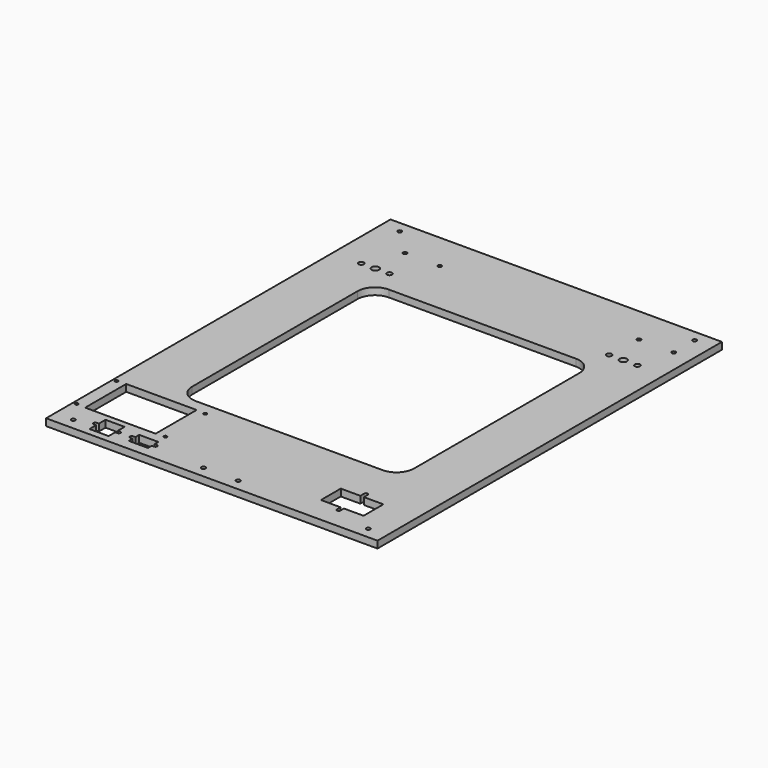
from build123d import *

# Parameters (mm, degrees)
SKETCH_W   = 381
SKETCH_H   = 495
SKETCH_R   = 3
SKETCH_R_2 = 4.2
SKETCH_R_3 = 2.2
SKETCH_R_4 = 2.25
SKETCH_R_5 = 1.8
SKETCH_R_6 = 2.4
SKETCH_W_2 = 255
SKETCH_H_2 = 277.586411
SKETCH_W_3 = 81
SKETCH_H_3 = 59
PAD_DEPTH  = 8
FILLET_R   = 20


with BuildPart() as part:
    # Sketch → Pad (new body)
    with BuildSketch(Plane.XY):
        with Locations((-190.5, 247.5)):
            Rectangle(SKETCH_W, SKETCH_H)
        with Locations((-348.25, 412)):
            Circle(SKETCH_R, mode=Mode.SUBTRACT)
        with Locations((-315.75, 412)):
            Circle(SKETCH_R, mode=Mode.SUBTRACT)
        with Locations((-332, 412)):
            Circle(SKETCH_R_2, mode=Mode.SUBTRACT)
        with Locations((-63.25, 412)):
            Circle(SKETCH_R, mode=Mode.SUBTRACT)
        with Locations((-30.75, 412)):
            Circle(SKETCH_R, mode=Mode.SUBTRACT)
        with Locations((-47, 412)):
            Circle(SKETCH_R_2, mode=Mode.SUBTRACT)
        with Locations((-330, 452)):
            Circle(SKETCH_R_3, mode=Mode.SUBTRACT)
        with Locations((-290, 452)):
            Circle(SKETCH_R_3, mode=Mode.SUBTRACT)
        with Locations((-61, 452)):
            Circle(SKETCH_R_3, mode=Mode.SUBTRACT)
        with Locations((-21, 452)):
            Circle(SKETCH_R_3, mode=Mode.SUBTRACT)
        with Locations((-21, 482)):
            Circle(SKETCH_R_4, mode=Mode.SUBTRACT)
        with Locations((-360, 482)):
            Circle(SKETCH_R_4, mode=Mode.SUBTRACT)
        with Locations((-21, 13)):
            Circle(SKETCH_R_4, mode=Mode.SUBTRACT)
        with Locations((-360, 13)):
            Circle(SKETCH_R_4, mode=Mode.SUBTRACT)
        with Locations((-377, 96)):
            Circle(SKETCH_R_5, mode=Mode.SUBTRACT)
        with Locations((-275, 96)):
            Circle(SKETCH_R_5, mode=Mode.SUBTRACT)
        with Locations((-275, 39)):
            Circle(SKETCH_R_5, mode=Mode.SUBTRACT)
        with Locations((-377, 39)):
            Circle(SKETCH_R_5, mode=Mode.SUBTRACT)
        with Locations((-210.5, 13)):
            Circle(SKETCH_R_6, mode=Mode.SUBTRACT)
        with Locations((-170.5, 13)):
            Circle(SKETCH_R_6, mode=Mode.SUBTRACT)
        with Locations((-189.5, 248.793205)):
            Rectangle(SKETCH_W_2, SKETCH_H_2, mode=Mode.SUBTRACT)
        with Locations((-326, 67.5)):
            Rectangle(SKETCH_W_3, SKETCH_H_3, mode=Mode.SUBTRACT)
        with BuildLine():
            Line((-337.5, 31), (-315.5, 31))
            Line((-315.5, 31), (-315.5, 21.5))
            Line((-315.5, 21.5), (-313, 21.5))
            ThreePointArc((-313, 17.5), (-311, 19.5), (-313, 21.5))
            Line((-315.5, 17.5), (-313, 17.5))
            Line((-315.5, 17.5), (-315.5, 8))
            Line((-315.5, 8), (-337.5, 8))
            Line((-337.5, 8), (-337.5, 17.5))
            Line((-340, 17.5), (-337.5, 17.5))
            ThreePointArc((-340, 21.5), (-342, 19.5), (-340, 17.5))
            Line((-340, 21.5), (-337.5, 21.5))
            Line((-337.5, 21.5), (-337.5, 31))
        make_face(mode=Mode.SUBTRACT)
        with BuildLine():
            Line((-295.5, 27), (-273.5, 27))
            Line((-273.5, 27), (-273.5, 21.5))
            Line((-273.5, 21.5), (-271, 21.5))
            ThreePointArc((-271, 17.5), (-269, 19.5), (-271, 21.5))
            Line((-273.5, 17.5), (-271, 17.5))
            Line((-273.5, 17.5), (-273.5, 12))
            Line((-273.5, 12), (-295.5, 12))
            Line((-295.5, 12), (-295.5, 17.5))
            Line((-298, 17.5), (-295.5, 17.5))
            ThreePointArc((-298, 21.5), (-300, 19.5), (-298, 17.5))
            Line((-298, 21.5), (-295.5, 21.5))
            Line((-295.5, 21.5), (-295.5, 27))
        make_face(mode=Mode.SUBTRACT)
        with BuildLine():
            Line((-89, 58.5), (-66.5, 58.5))
            Line((-66.5, 64), (-66.5, 58.5))
            ThreePointArc((-62.5, 64), (-64.5, 66), (-66.5, 64))
            Line((-62.5, 64), (-62.5, 58.5))
            Line((-62.5, 58.5), (-40, 58.5))
            Line((-40, 58.5), (-40, 30))
            Line((-40, 30), (-62.5, 30))
            Line((-62.5, 30), (-62.5, 25))
            ThreePointArc((-66.5, 25), (-64.5, 23), (-62.5, 25))
            Line((-66.5, 30), (-66.5, 25))
            Line((-66.5, 30), (-89, 30))
            Line((-89, 30), (-89, 58.5))
        make_face(mode=Mode.SUBTRACT)
    extrude(amount=PAD_DEPTH)

    # Fillet
    fillet_edges = [part.edges().sort_by_distance(p)[0] for p in [
        (-317, 387.586411, 4),
        (-62, 387.586411, 4),
        (-62, 110, 4),
        (-317, 110, 4),
    ]]
    fillet(fillet_edges, radius=FILLET_R)


solid = part.part
